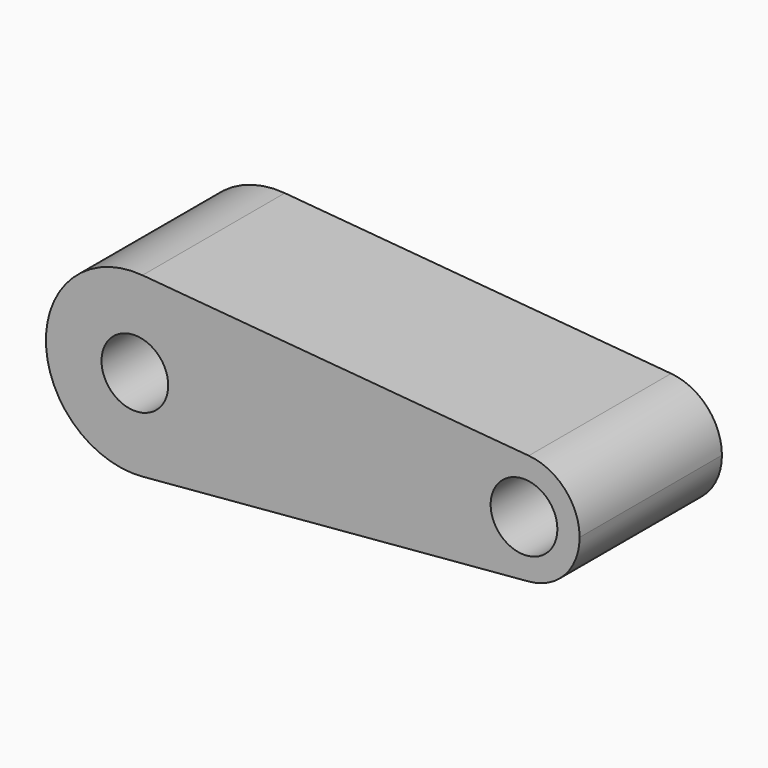
from build123d import *

# Parameters (mm, degrees)
F0_R     = 4.7625
F1_DEPTH = 25.4
F2_DEPTH = 25.4


with BuildPart() as f1:
    # F0 (on Front) → F1 (new body)
    with BuildSketch(Plane.XZ):
        with BuildLine():
            ThreePointArc((1.088571, -12.653261), (9.357213, -8.586767), (12.7, 0))
            ThreePointArc((12.7, 0), (9.357213, 8.586767), (1.088571, 12.653261))
            ThreePointArc((1.088571, 12.653261), (-12.7, 0), (1.088571, -12.653261))
        make_face()
        Circle(F0_R, mode=Mode.SUBTRACT)
        with BuildLine():
            ThreePointArc((1.088571, 12.653261), (9.357213, 8.586767), (12.7, 0))
            ThreePointArc((12.7, 0), (9.357213, -8.586767), (1.088571, -12.653261))
            Line((1.088571, -12.653261), (56.242857, -7.908288))
            ThreePointArc((56.242857, -7.908288), (47.625, 0), (56.242857, 7.908288))
            Line((56.242857, 7.908288), (1.088571, 12.653261))
        make_face()
        with BuildLine():
            ThreePointArc((63.5, 0), (61.410758, 5.36673), (56.242857, 7.908288))
            ThreePointArc((56.242857, 7.908288), (47.625, 0), (56.242857, -7.908288))
            ThreePointArc((56.242857, -7.908288), (61.410758, -5.36673), (63.5, 0))
        make_face()
        with Locations((55.5625, 0)):
            Circle(F0_R, mode=Mode.SUBTRACT)
    extrude(amount=F1_DEPTH)

    # F0 (on Front) → F2 (join)
    with BuildSketch(Plane.XZ):
        with BuildLine():
            ThreePointArc((1.088571, -12.653261), (9.357213, -8.586767), (12.7, 0))
            ThreePointArc((12.7, 0), (9.357213, 8.586767), (1.088571, 12.653261))
            ThreePointArc((1.088571, 12.653261), (-12.7, 0), (1.088571, -12.653261))
        make_face()
        Circle(F0_R, mode=Mode.SUBTRACT)
        with BuildLine():
            ThreePointArc((1.088571, 12.653261), (9.357213, 8.586767), (12.7, 0))
            ThreePointArc((12.7, 0), (9.357213, -8.586767), (1.088571, -12.653261))
            Line((1.088571, -12.653261), (56.242857, -7.908288))
            ThreePointArc((56.242857, -7.908288), (47.625, 0), (56.242857, 7.908288))
            Line((56.242857, 7.908288), (1.088571, 12.653261))
        make_face()
        with BuildLine():
            ThreePointArc((63.5, 0), (61.410758, 5.36673), (56.242857, 7.908288))
            ThreePointArc((56.242857, 7.908288), (47.625, 0), (56.242857, -7.908288))
            ThreePointArc((56.242857, -7.908288), (61.410758, -5.36673), (63.5, 0))
        make_face()
        with Locations((55.5625, 0)):
            Circle(F0_R, mode=Mode.SUBTRACT)
    extrude(amount=F2_DEPTH)


solid = f1.part
